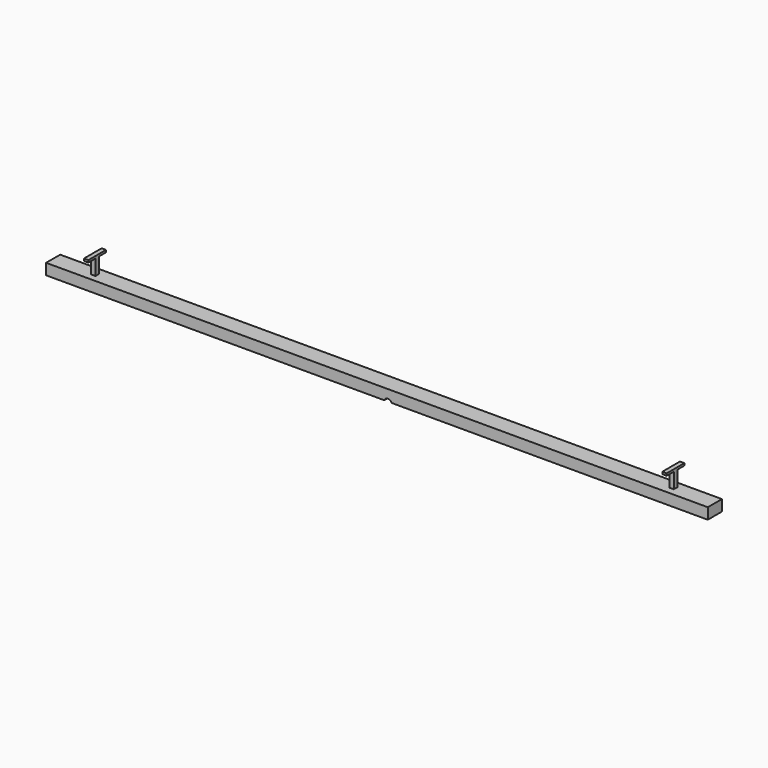
from build123d import *

# Parameters (mm, degrees)
F1_DEPTH  = 203.2
F2_W      = 50.8
F2_H      = 50.8
F3_DEPTH  = 203.2
F4_W      = 50.8
F4_H      = 25.4
F5_DEPTH  = 101.6
F6_W      = 50.8
F6_H      = 25.4
F7_DEPTH  = 101.6
F8_W      = 50.8
F8_H      = 25.4
F9_DEPTH  = 101.6
F10_W     = 50.8
F10_H     = 25.4
F11_DEPTH = 101.6


with BuildPart() as f1:
    # F0 (on Front) → F1 (new body)
    with BuildSketch(Plane.XZ):
        with BuildLine():
            Line((3810, -63.5), (3810, 63.5))
            Line((3810, 63.5), (-3810, 63.5))
            Line((-3810, 63.5), (-3810, -63.5))
            Line((-3810, -63.5), (85.237012, -63.5))
            ThreePointArc((85.237012, -63.5), (127, -34.270229), (168.762988, -63.5))
            Line((168.762988, -63.5), (420.722027, -63.5))
            Line((420.722027, -63.5), (493.677973, -63.5))
            Line((493.677973, -63.5), (3810, -63.5))
        make_face()
    extrude(amount=F1_DEPTH)

    # F2 (on face) → F3 (join)
    with BuildSketch(Plane.XY.offset(63.5)):
        with Locations((3327.4, -95.884992)):
            Rectangle(F2_W, F2_H)
        with Locations((-3327.4, -101.6)):
            Rectangle(F2_W, F2_H)
    extrude(amount=F3_DEPTH)

    # F4 (on face) → F5 (join)
    with BuildSketch(Plane.XZ.offset(121.284992)):
        with Locations((3327.4, 254)):
            Rectangle(F4_W, F4_H)
    extrude(amount=F5_DEPTH)

    # F6 (on face) → F7 (join)
    with BuildSketch(Plane(origin=(0, -70.484992, 0), x_dir=(-1, 0, 0), z_dir=(0, 1, 0))):
        with Locations((-3327.4, 254)):
            Rectangle(F6_W, F6_H)
    extrude(amount=F7_DEPTH)

    # F8 (on face) → F9 (join)
    with BuildSketch(Plane.XZ.offset(127)):
        with Locations((-3327.4, 254)):
            Rectangle(F8_W, F8_H)
    extrude(amount=F9_DEPTH)

    # F10 (on face) → F11 (join)
    with BuildSketch(Plane(origin=(0, -76.2, 0), x_dir=(-1, 0, 0), z_dir=(0, 1, 0))):
        with Locations((3327.4, 254)):
            Rectangle(F10_W, F10_H)
    extrude(amount=F11_DEPTH)


solid = f1.part
